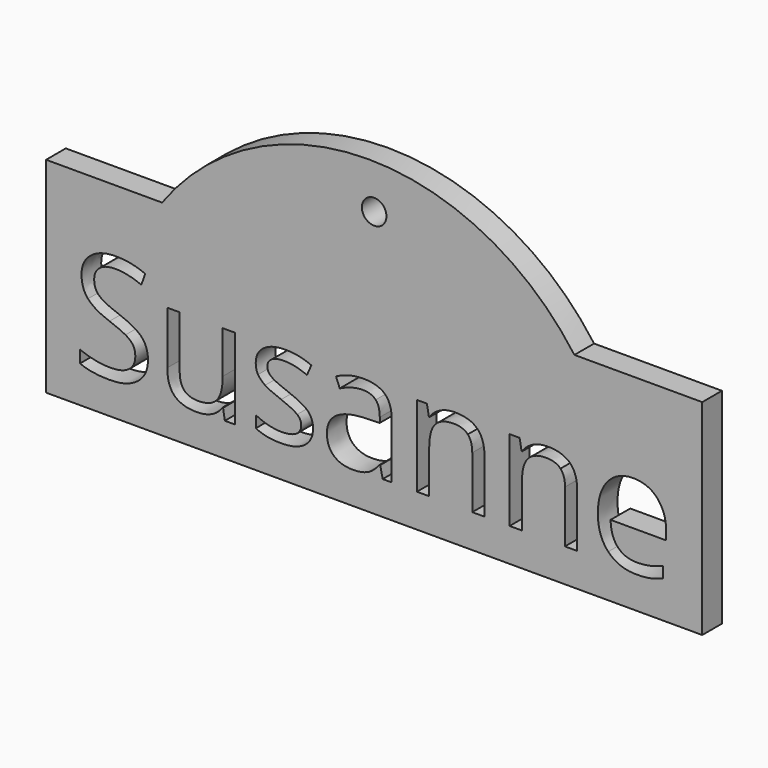
from build123d import *

# Parameters (mm, degrees)
F0_R     = 1.5
F1_DEPTH = 3


with BuildPart() as f1:
    # F0 (on Front) → F1 (new body)
    with BuildSketch(Plane.XZ):
        Polygon((-62.2049857916, 50.1136370003), (-76.3461554516, 50.1136370003), (-76.3461554516, 25.1136370003), (3.6538445484, 25.1136370003), (3.6538445484, 50.1136370003), (-11.9318189099, 50.1136370003), align=None)
        with BuildLine():
            Line((-61.5648437892, 39.0398807733), (-60.0541396157, 39.0398807733))
            Line((-60.0541396157, 39.0398807733), (-60.0541396157, 32.6460052044))
            add(Edge.make_bspline(
                [(-60.0541396157, 32.6460052044), (-60.0541396157, 31.4403193973), (-59.5059698155, 30.8475478549)],
                knots=[0, 0, 0, 1, 1, 1], degree=2))
            add(Edge.make_bspline(
                [(-59.5059698155, 30.8475478549), (-58.9578000154, 30.2547763125), (-57.7895221212, 30.2547763125)],
                knots=[0, 0, 0, 1, 1, 1], degree=2))
            add(Edge.make_bspline(
                [(-57.7895221212, 30.2547763125), (-56.2414100347, 30.2547763125), (-55.5277821584, 31.0993318838)],
                knots=[0, 0, 0, 1, 1, 1], degree=2))
            add(Edge.make_bspline(
                [(-55.5277821584, 31.0993318838), (-54.8141542822, 31.9438874551), (-54.8141542822, 33.8603236067)],
                knots=[0, 0, 0, 1, 1, 1], degree=2))
            Line((-54.8141542822, 33.8603236067), (-54.8141542822, 39.0398807733))
            Line((-54.8141542822, 39.0398807733), (-53.3207152991, 39.0398807733))
            Line((-53.3207152991, 39.0398807733), (-53.3207152991, 29.184334498))
            Line((-53.3207152991, 29.184334498), (-54.5522988921, 29.184334498))
            Line((-54.5522988921, 29.184334498), (-54.768113774, 30.5051215755))
            Line((-54.768113774, 30.5051215755), (-54.8486846633, 30.5051215755))
            add(Edge.make_bspline(
                [(-54.8486846633, 30.5051215755), (-55.306212213, 29.7771060404), (-56.1205537008, 29.3900780188)],
                knots=[0, 0, 0, 1, 1, 1], degree=2))
            add(Edge.make_bspline(
                [(-56.1205537008, 29.3900780188), (-56.9348951887, 29.0030499972), (-57.9794392173, 29.0030499972)],
                knots=[0, 0, 0, 1, 1, 1], degree=2))
            add(Edge.make_bspline(
                [(-57.9794392173, 29.0030499972), (-59.7778965668, 29.0030499972), (-60.671370178, 29.8576769297)],
                knots=[0, 0, 0, 1, 1, 1], degree=2))
            add(Edge.make_bspline(
                [(-60.671370178, 29.8576769297), (-61.5648437892, 30.7123038622), (-61.5648437892, 32.5913321009)],
                knots=[0, 0, 0, 1, 1, 1], degree=2))
            Line((-61.5648437892, 32.5913321009), (-61.5648437892, 39.0398807733))
        make_face(mode=Mode.SUBTRACT)
        with BuildLine():
            add(Edge.make_bspline(
                [(-44.4147545044, 33.5006321368), (-43.7989627079, 32.853187491), (-43.7989627079, 31.8719491611)],
                knots=[0, 0, 0, 1, 1, 1], degree=2))
            add(Edge.make_bspline(
                [(-43.7989627079, 31.8719491611), (-43.7989627079, 30.4964889802), (-44.8233640142, 29.7497694887)],
                knots=[0, 0, 0, 1, 1, 1], degree=2))
            add(Edge.make_bspline(
                [(-44.8233640142, 29.7497694887), (-45.8477653205, 29.0030499972), (-47.7008957734, 29.0030499972)],
                knots=[0, 0, 0, 1, 1, 1], degree=2))
            add(Edge.make_bspline(
                [(-47.7008957734, 29.0030499972), (-49.6604949014, 29.0030499972), (-50.7568345017, 29.6245968572)],
                knots=[0, 0, 0, 1, 1, 1], degree=2))
            Line((-50.7568345017, 29.6245968572), (-50.7568345017, 31.0086896334))
            add(Edge.make_bspline(
                [(-50.7568345017, 31.0086896334), (-50.0460841572, 30.6489981635), (-49.2331814352, 30.4432546427)],
                knots=[0, 0, 0, 1, 1, 1], degree=2))
            add(Edge.make_bspline(
                [(-49.2331814352, 30.4432546427), (-48.4202787132, 30.2375111219), (-47.6634878605, 30.2375111219)],
                knots=[0, 0, 0, 1, 1, 1], degree=2))
            add(Edge.make_bspline(
                [(-47.6634878605, 30.2375111219), (-46.4952099663, 30.2375111219), (-45.8664692769, 30.6101514847)],
                knots=[0, 0, 0, 1, 1, 1], degree=2))
            add(Edge.make_bspline(
                [(-45.8664692769, 30.6101514847), (-45.2377285875, 30.9827918475), (-45.2377285875, 31.7482152955)],
                knots=[0, 0, 0, 1, 1, 1], degree=2))
            add(Edge.make_bspline(
                [(-45.2377285875, 31.7482152955), (-45.2377285875, 32.3237216473), (-45.7355415819, 32.7323311571)],
                knots=[0, 0, 0, 1, 1, 1], degree=2))
            add(Edge.make_bspline(
                [(-45.7355415819, 32.7323311571), (-46.2333545762, 33.1409406669), (-47.6836305829, 33.6991818282)],
                knots=[0, 0, 0, 1, 1, 1], degree=2))
            add(Edge.make_bspline(
                [(-47.6836305829, 33.6991818282), (-49.0590907638, 34.2113824814), (-49.6389134132, 34.5940942053)],
                knots=[0, 0, 0, 1, 1, 1], degree=2))
            add(Edge.make_bspline(
                [(-49.6389134132, 34.5940942053), (-50.2187360627, 34.9768059293), (-50.502172941, 35.4616700307)],
                knots=[0, 0, 0, 1, 1, 1], degree=2))
            add(Edge.make_bspline(
                [(-50.502172941, 35.4616700307), (-50.7856098193, 35.9465341322), (-50.7856098193, 36.6198765638)],
                knots=[0, 0, 0, 1, 1, 1], degree=2))
            add(Edge.make_bspline(
                [(-50.7856098193, 36.6198765638), (-50.7856098193, 37.8255623709), (-49.8043714894, 38.5233638225)],
                knots=[0, 0, 0, 1, 1, 1], degree=2))
            add(Edge.make_bspline(
                [(-49.8043714894, 38.5233638225), (-48.8231331595, 39.2211652741), (-47.1167568263, 39.2211652741)],
                knots=[0, 0, 0, 1, 1, 1], degree=2))
            add(Edge.make_bspline(
                [(-47.1167568263, 39.2211652741), (-45.5254817635, 39.2211652741), (-44.0032674628, 38.5737206283)],
                knots=[0, 0, 0, 1, 1, 1], degree=2))
            Line((-44.0032674628, 38.5737206283), (-44.5356108383, 37.3594022259))
            add(Edge.make_bspline(
                [(-44.5356108383, 37.3594022259), (-46.0175396943, 37.9694389589), (-47.2232255014, 37.9694389589)],
                knots=[0, 0, 0, 1, 1, 1], degree=2))
            add(Edge.make_bspline(
                [(-47.2232255014, 37.9694389589), (-48.2850347205, 37.9694389589), (-48.8245719254, 37.6370840407)],
                knots=[0, 0, 0, 1, 1, 1], degree=2))
            add(Edge.make_bspline(
                [(-48.8245719254, 37.6370840407), (-49.3641091302, 37.3047291225), (-49.3641091302, 36.7205901754)],
                knots=[0, 0, 0, 1, 1, 1], degree=2))
            add(Edge.make_bspline(
                [(-49.3641091302, 36.7205901754), (-49.3641091302, 36.3234907926), (-49.1612431412, 36.0458089779)],
                knots=[0, 0, 0, 1, 1, 1], degree=2))
            add(Edge.make_bspline(
                [(-49.1612431412, 36.0458089779), (-48.9583771522, 35.7681271631), (-48.5094821977, 35.5163431342)],
                knots=[0, 0, 0, 1, 1, 1], degree=2))
            add(Edge.make_bspline(
                [(-48.5094821977, 35.5163431342), (-48.0605872433, 35.2645591052), (-46.7829631422, 34.7868888332)],
                knots=[0, 0, 0, 1, 1, 1], degree=2))
            add(Edge.make_bspline(
                [(-46.7829631422, 34.7868888332), (-45.0305463009, 34.1480767827), (-44.4147545044, 33.5006321368)],
                knots=[0, 0, 0, 1, 1, 1], degree=2))
        make_face(mode=Mode.SUBTRACT)
        with BuildLine():
            Line((-34.202394291, 29.184334498), (-35.3102440183, 29.184334498))
            Line((-35.3102440183, 29.184334498), (-35.6066297895, 30.5885699965))
            Line((-35.6066297895, 30.5885699965), (-35.6785680835, 30.5885699965))
            add(Edge.make_bspline(
                [(-35.6785680835, 30.5885699965), (-36.4152162138, 29.6620047701), (-37.1475480465, 29.3325273836)],
                knots=[0, 0, 0, 1, 1, 1], degree=2))
            add(Edge.make_bspline(
                [(-37.1475480465, 29.3325273836), (-37.8798798793, 29.0030499972), (-38.9790970113, 29.0030499972)],
                knots=[0, 0, 0, 1, 1, 1], degree=2))
            add(Edge.make_bspline(
                [(-38.9790970113, 29.0030499972), (-40.4437606767, 29.0030499972), (-41.2753673551, 29.7598408499)],
                knots=[0, 0, 0, 1, 1, 1], degree=2))
            add(Edge.make_bspline(
                [(-41.2753673551, 29.7598408499), (-42.1069740335, 30.5166317026), (-42.1069740335, 31.909357074)],
                knots=[0, 0, 0, 1, 1, 1], degree=2))
            add(Edge.make_bspline(
                [(-42.1069740335, 31.909357074), (-42.1069740335, 34.8933575083), (-37.333148845, 35.0372340963)],
                knots=[0, 0, 0, 1, 1, 1], degree=2))
            Line((-37.333148845, 35.0372340963), (-35.6613028929, 35.0919071997))
            Line((-35.6613028929, 35.0919071997), (-35.6613028929, 35.7048214644))
            add(Edge.make_bspline(
                [(-35.6613028929, 35.7048214644), (-35.6613028929, 36.8644667633), (-36.1591158873, 37.4169528611)],
                knots=[0, 0, 0, 1, 1, 1], degree=2))
            add(Edge.make_bspline(
                [(-36.1591158873, 37.4169528611), (-36.6569288816, 37.9694389589), (-37.7561460136, 37.9694389589)],
                knots=[0, 0, 0, 1, 1, 1], degree=2))
            add(Edge.make_bspline(
                [(-37.7561460136, 37.9694389589), (-38.9877296066, 37.9694389589), (-40.5415967565, 37.215525638)],
                knots=[0, 0, 0, 1, 1, 1], degree=2))
            Line((-40.5415967565, 37.215525638), (-41.002001838, 38.3579057464))
            add(Edge.make_bspline(
                [(-41.002001838, 38.3579057464), (-40.2739863029, 38.7521275974), (-39.4064104775, 38.9765750746)],
                knots=[0, 0, 0, 1, 1, 1], degree=2))
            add(Edge.make_bspline(
                [(-39.4064104775, 38.9765750746), (-38.5388346521, 39.2010225518), (-37.6640649973, 39.2010225518)],
                knots=[0, 0, 0, 1, 1, 1], degree=2))
            add(Edge.make_bspline(
                [(-37.6640649973, 39.2010225518), (-35.9030155607, 39.2010225518), (-35.0527049259, 38.4197726792)],
                knots=[0, 0, 0, 1, 1, 1], degree=2))
            add(Edge.make_bspline(
                [(-35.0527049259, 38.4197726792), (-34.202394291, 37.6385228066), (-34.202394291, 35.9120037511)],
                knots=[0, 0, 0, 1, 1, 1], degree=2))
            Line((-34.202394291, 35.9120037511), (-34.202394291, 29.184334498))
        make_face(mode=Mode.SUBTRACT)
        with BuildLine():
            add(Edge.make_bspline(
                [(-64.7013534068, 34.8760923177), (-63.9244198318, 34.0300979805), (-63.9244198318, 32.6834131172)],
                knots=[0, 0, 0, 1, 1, 1], degree=2))
            add(Edge.make_bspline(
                [(-63.9244198318, 32.6834131172), (-63.9244198318, 30.9482614664), (-65.1833399764, 29.9756557318)],
                knots=[0, 0, 0, 1, 1, 1], degree=2))
            add(Edge.make_bspline(
                [(-65.1833399764, 29.9756557318), (-66.4422601211, 29.0030499972), (-68.6004089405, 29.0030499972)],
                knots=[0, 0, 0, 1, 1, 1], degree=2))
            add(Edge.make_bspline(
                [(-68.6004089405, 29.0030499972), (-70.9369647289, 29.0030499972), (-72.1973236395, 29.6073316666)],
                knots=[0, 0, 0, 1, 1, 1], degree=2))
            Line((-72.1973236395, 29.6073316666), (-72.1973236395, 31.0806279274))
            add(Edge.make_bspline(
                [(-72.1973236395, 31.0806279274), (-71.3858596834, 30.7410791798), (-70.4333966711, 30.5425294884)],
                knots=[0, 0, 0, 1, 1, 1], degree=2))
            add(Edge.make_bspline(
                [(-70.4333966711, 30.5425294884), (-69.4809336588, 30.343979797), (-68.545735837, 30.343979797)],
                knots=[0, 0, 0, 1, 1, 1], degree=2))
            add(Edge.make_bspline(
                [(-68.545735837, 30.343979797), (-67.0177664729, 30.343979797), (-66.2437104297, 30.9238024465)],
                knots=[0, 0, 0, 1, 1, 1], degree=2))
            add(Edge.make_bspline(
                [(-66.2437104297, 30.9238024465), (-65.4696543865, 31.503625096), (-65.4696543865, 32.5395365293)],
                knots=[0, 0, 0, 1, 1, 1], degree=2))
            add(Edge.make_bspline(
                [(-65.4696543865, 32.5395365293), (-65.4696543865, 33.2215115562), (-65.7444586695, 33.6574576177)],
                knots=[0, 0, 0, 1, 1, 1], degree=2))
            add(Edge.make_bspline(
                [(-65.7444586695, 33.6574576177), (-66.0192629525, 34.0934036792), (-66.6623913007, 34.4631665103)],
                knots=[0, 0, 0, 1, 1, 1], degree=2))
            add(Edge.make_bspline(
                [(-66.6623913007, 34.4631665103), (-67.3055196488, 34.8329293414), (-68.617674131, 35.2990894863)],
                knots=[0, 0, 0, 1, 1, 1], degree=2))
            add(Edge.make_bspline(
                [(-68.617674131, 35.2990894863), (-70.4506618616, 35.9551667274), (-71.2376667978, 36.8543954022)],
                knots=[0, 0, 0, 1, 1, 1], degree=2))
            add(Edge.make_bspline(
                [(-71.2376667978, 36.8543954022), (-72.0246717339, 37.7536240769), (-72.0246717339, 39.2010225518)],
                knots=[0, 0, 0, 1, 1, 1], degree=2))
            add(Edge.make_bspline(
                [(-72.0246717339, 39.2010225518), (-72.0246717339, 40.7203593207), (-70.8837303914, 41.6195879954)],
                knots=[0, 0, 0, 1, 1, 1], degree=2))
            add(Edge.make_bspline(
                [(-70.8837303914, 41.6195879954), (-69.7427890489, 42.5188166702), (-67.8608832784, 42.5188166702)],
                knots=[0, 0, 0, 1, 1, 1], degree=2))
            add(Edge.make_bspline(
                [(-67.8608832784, 42.5188166702), (-65.9012841503, 42.5188166702), (-64.2553359841, 41.7994337304)],
                knots=[0, 0, 0, 1, 1, 1], degree=2))
            Line((-64.2553359841, 41.7994337304), (-64.7330062561, 40.4700140576))
            add(Edge.make_bspline(
                [(-64.7330062561, 40.4700140576), (-66.3616892318, 41.1519890846), (-67.8982911912, 41.1519890846)],
                knots=[0, 0, 0, 1, 1, 1], degree=2))
            add(Edge.make_bspline(
                [(-67.8982911912, 41.1519890846), (-69.1126095936, 41.1519890846), (-69.7960233864, 40.6311558361)],
                knots=[0, 0, 0, 1, 1, 1], degree=2))
            add(Edge.make_bspline(
                [(-69.7960233864, 40.6311558361), (-70.4794371792, 40.1103225877), (-70.4794371792, 39.1837573613)],
                knots=[0, 0, 0, 1, 1, 1], degree=2))
            add(Edge.make_bspline(
                [(-70.4794371792, 39.1837573613), (-70.4794371792, 38.5017823343), (-70.2276531503, 38.0643975069)],
                knots=[0, 0, 0, 1, 1, 1], degree=2))
            add(Edge.make_bspline(
                [(-70.2276531503, 38.0643975069), (-69.9758691214, 37.6270126795), (-69.3773425155, 37.263004912)],
                knots=[0, 0, 0, 1, 1, 1], degree=2))
            add(Edge.make_bspline(
                [(-69.3773425155, 37.263004912), (-68.7788159095, 36.8989971445), (-67.5472323166, 36.4587347853)],
                knots=[0, 0, 0, 1, 1, 1], degree=2))
            add(Edge.make_bspline(
                [(-67.5472323166, 36.4587347853), (-65.4782869817, 35.7220866549), (-64.7013534068, 34.8760923177)],
                knots=[0, 0, 0, 1, 1, 1], degree=2))
        make_face(mode=Mode.SUBTRACT)
        with BuildLine():
            Line((-22.8908169456, 29.184334498), (-24.3842559286, 29.184334498))
            Line((-24.3842559286, 29.184334498), (-24.3842559286, 35.5609448764))
            add(Edge.make_bspline(
                [(-24.3842559286, 35.5609448764), (-24.3842559286, 36.7637531518), (-24.9324257287, 37.3579634601)],
                knots=[0, 0, 0, 1, 1, 1], degree=2))
            add(Edge.make_bspline(
                [(-24.9324257287, 37.3579634601), (-25.4805955289, 37.9521737683), (-26.6517509549, 37.9521737683)],
                knots=[0, 0, 0, 1, 1, 1], degree=2))
            add(Edge.make_bspline(
                [(-26.6517509549, 37.9521737683), (-28.1969855096, 37.9521737683), (-28.9163684494, 37.1162507923)],
                knots=[0, 0, 0, 1, 1, 1], degree=2))
            add(Edge.make_bspline(
                [(-28.9163684494, 37.1162507923), (-29.6357513892, 36.2803278162), (-29.6357513892, 34.3552590693)],
                knots=[0, 0, 0, 1, 1, 1], degree=2))
            Line((-29.6357513892, 34.3552590693), (-29.6357513892, 29.184334498))
            Line((-29.6357513892, 29.184334498), (-31.1291903722, 29.184334498))
            Line((-31.1291903722, 29.184334498), (-31.1291903722, 39.0398807733))
            Line((-31.1291903722, 39.0398807733), (-29.9148719698, 39.0398807733))
            Line((-29.9148719698, 39.0398807733), (-29.673159302, 37.6903183782))
            Line((-29.673159302, 37.6903183782), (-29.601221008, 37.6903183782))
            add(Edge.make_bspline(
                [(-29.601221008, 37.6903183782), (-29.1408159266, 38.4183339133), (-28.3135255458, 38.8197495937)],
                knots=[0, 0, 0, 1, 1, 1], degree=2))
            add(Edge.make_bspline(
                [(-28.3135255458, 38.8197495937), (-27.486235165, 39.2211652741), (-26.470466454, 39.2211652741)],
                knots=[0, 0, 0, 1, 1, 1], degree=2))
            add(Edge.make_bspline(
                [(-26.470466454, 39.2211652741), (-24.6892742951, 39.2211652741), (-23.7900456203, 38.362222044)],
                knots=[0, 0, 0, 1, 1, 1], degree=2))
            add(Edge.make_bspline(
                [(-23.7900456203, 38.362222044), (-22.8908169456, 37.5032788139), (-22.8908169456, 35.6127404481)],
                knots=[0, 0, 0, 1, 1, 1], degree=2))
            Line((-22.8908169456, 35.6127404481), (-22.8908169456, 29.184334498))
        make_face(mode=Mode.SUBTRACT)
        with BuildLine():
            Line((-11.5878721955, 29.184334498), (-13.0813111785, 29.184334498))
            Line((-13.0813111785, 29.184334498), (-13.0813111785, 35.5609448764))
            add(Edge.make_bspline(
                [(-13.0813111785, 35.5609448764), (-13.0813111785, 36.7637531518), (-13.6294809786, 37.3579634601)],
                knots=[0, 0, 0, 1, 1, 1], degree=2))
            add(Edge.make_bspline(
                [(-13.6294809786, 37.3579634601), (-14.1776507787, 37.9521737683), (-15.3488062047, 37.9521737683)],
                knots=[0, 0, 0, 1, 1, 1], degree=2))
            add(Edge.make_bspline(
                [(-15.3488062047, 37.9521737683), (-16.8940407594, 37.9521737683), (-17.6134236992, 37.1162507923)],
                knots=[0, 0, 0, 1, 1, 1], degree=2))
            add(Edge.make_bspline(
                [(-17.6134236992, 37.1162507923), (-18.332806639, 36.2803278162), (-18.332806639, 34.3552590693)],
                knots=[0, 0, 0, 1, 1, 1], degree=2))
            Line((-18.332806639, 34.3552590693), (-18.332806639, 29.184334498))
            Line((-18.332806639, 29.184334498), (-19.826245622, 29.184334498))
            Line((-19.826245622, 29.184334498), (-19.826245622, 39.0398807733))
            Line((-19.826245622, 39.0398807733), (-18.6119272197, 39.0398807733))
            Line((-18.6119272197, 39.0398807733), (-18.3702145519, 37.6903183782))
            Line((-18.3702145519, 37.6903183782), (-18.2982762579, 37.6903183782))
            add(Edge.make_bspline(
                [(-18.2982762579, 37.6903183782), (-17.8378711764, 38.4183339133), (-17.0105807957, 38.8197495937)],
                knots=[0, 0, 0, 1, 1, 1], degree=2))
            add(Edge.make_bspline(
                [(-17.0105807957, 38.8197495937), (-16.1832904149, 39.2211652741), (-15.1675217039, 39.2211652741)],
                knots=[0, 0, 0, 1, 1, 1], degree=2))
            add(Edge.make_bspline(
                [(-15.1675217039, 39.2211652741), (-13.386329545, 39.2211652741), (-12.4871008702, 38.362222044)],
                knots=[0, 0, 0, 1, 1, 1], degree=2))
            add(Edge.make_bspline(
                [(-12.4871008702, 38.362222044), (-11.5878721955, 37.5032788139), (-11.5878721955, 35.6127404481)],
                knots=[0, 0, 0, 1, 1, 1], degree=2))
            Line((-11.5878721955, 35.6127404481), (-11.5878721955, 29.184334498))
        make_face(mode=Mode.SUBTRACT)
        with BuildLine():
            add(Edge.make_bspline(
                [(-2.6560136149, 29.1526816487), (-3.3610088959, 29.0030499972), (-4.3595124164, 29.0030499972)],
                knots=[0, 0, 0, 1, 1, 1], degree=2))
            add(Edge.make_bspline(
                [(-4.3595124164, 29.0030499972), (-6.5435590216, 29.0030499972), (-7.8082342298, 30.3353472017)],
                knots=[0, 0, 0, 1, 1, 1], degree=2))
            add(Edge.make_bspline(
                [(-7.8082342298, 30.3353472017), (-9.0729094379, 31.6676444062), (-9.0729094379, 34.0300979805)],
                knots=[0, 0, 0, 1, 1, 1], degree=2))
            add(Edge.make_bspline(
                [(-9.0729094379, 34.0300979805), (-9.0729094379, 36.4155718089), (-7.8988764802, 37.8183685415)],
                knots=[0, 0, 0, 1, 1, 1], degree=2))
            add(Edge.make_bspline(
                [(-7.8988764802, 37.8183685415), (-6.7248435224, 39.2211652741), (-4.7451016721, 39.2211652741)],
                knots=[0, 0, 0, 1, 1, 1], degree=2))
            add(Edge.make_bspline(
                [(-4.7451016721, 39.2211652741), (-2.8948487509, 39.2211652741), (-1.8157743412, 38.0025305741)],
                knots=[0, 0, 0, 1, 1, 1], degree=2))
            add(Edge.make_bspline(
                [(-1.8157743412, 38.0025305741), (-0.7366999315, 36.7838958741), (-0.7366999315, 34.7868888332)],
                knots=[0, 0, 0, 1, 1, 1], degree=2))
            Line((-0.7366999315, 34.7868888332), (-0.7366999315, 33.8430584162))
            Line((-0.7366999315, 33.8430584162), (-7.5247973515, 33.8430584162))
            add(Edge.make_bspline(
                [(-7.5247973515, 33.8430584162), (-7.4787568433, 32.1079067654), (-6.6471501649, 31.2086780906)],
                knots=[0, 0, 0, 1, 1, 1], degree=2))
            add(Edge.make_bspline(
                [(-6.6471501649, 31.2086780906), (-5.8155434865, 30.3094494159), (-4.3048393129, 30.3094494159)],
                knots=[0, 0, 0, 1, 1, 1], degree=2))
            add(Edge.make_bspline(
                [(-4.3048393129, 30.3094494159), (-2.7135642501, 30.3094494159), (-1.1596971001, 30.9741592523)],
                knots=[0, 0, 0, 1, 1, 1], degree=2))
            Line((-1.1596971001, 30.9741592523), (-1.1596971001, 29.6418620478))
            add(Edge.make_bspline(
                [(-1.1596971001, 29.6418620478), (-1.9510183339, 29.3023133002), (-2.6560136149, 29.1526816487)],
                knots=[0, 0, 0, 1, 1, 1], degree=2))
        make_face(mode=Mode.SUBTRACT)
        with BuildLine():
            ThreePointArc((-11.9318189099, 50.1136370003), (-37.0684023508, 62.9567021774), (-62.2049857916, 50.1136370003))
            Line((-62.2049857916, 50.1136370003), (-11.9318189099, 50.1136370003))
        make_face()
        with Locations((-36.3461554516, 57.5389084364)):
            Circle(F0_R, mode=Mode.SUBTRACT)
    extrude(amount=F1_DEPTH)


solid = f1.part
